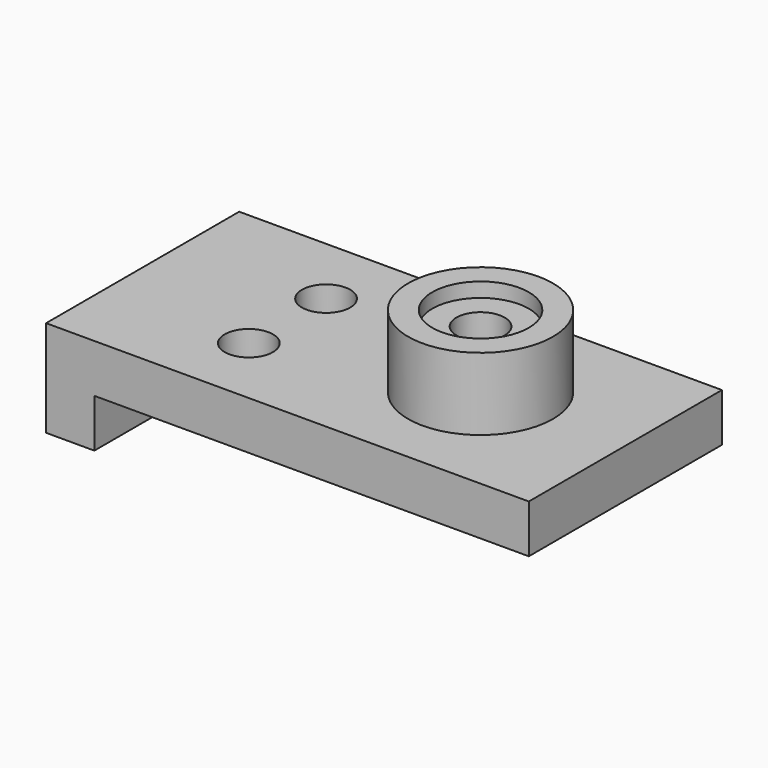
from build123d import *

# Parameters (mm, degrees)
F1_DEPTH = 50
F2_R     = 15
F2_R_2   = 10
F3_DEPTH = 15
F2_R_3   = 5
F4_DEPTH = 12
F5_DEPTH = 25


with BuildPart() as f1:
    # F0 (on Front) → F1 (new body)
    with BuildSketch(Plane.XZ):
        Polygon((0, 20), (0, 0), (10, 0), (10, 10.000004), (100, 10.000004), (100, 20), align=None)
    extrude(amount=F1_DEPTH)

    # F2 (on face) → F3 (join)
    with BuildSketch(Plane.XY.offset(20)):
        with Locations((70, -25)):
            Circle(F2_R)
        with Locations((70, -25)):
            Circle(F2_R_2, mode=Mode.SUBTRACT)
    extrude(amount=F3_DEPTH)

    # F2 (on face) → F4 (join)
    with BuildSketch(Plane.XY.offset(20)):
        with Locations((70, -25)):
            Circle(F2_R_2)
        with Locations((70, -25)):
            Circle(F2_R_3, mode=Mode.SUBTRACT)
    extrude(amount=F4_DEPTH)

    # F2 (on face) → F5 (cut)
    with BuildSketch(Plane.XY.offset(20)):
        with Locations((70, -25)):
            Circle(F2_R_3)
        with Locations((30, -35)):
            Circle(F2_R_3)
        with Locations((30, -15)):
            Circle(F2_R_3)
    extrude(amount=-F5_DEPTH, mode=Mode.SUBTRACT)


solid = f1.part
